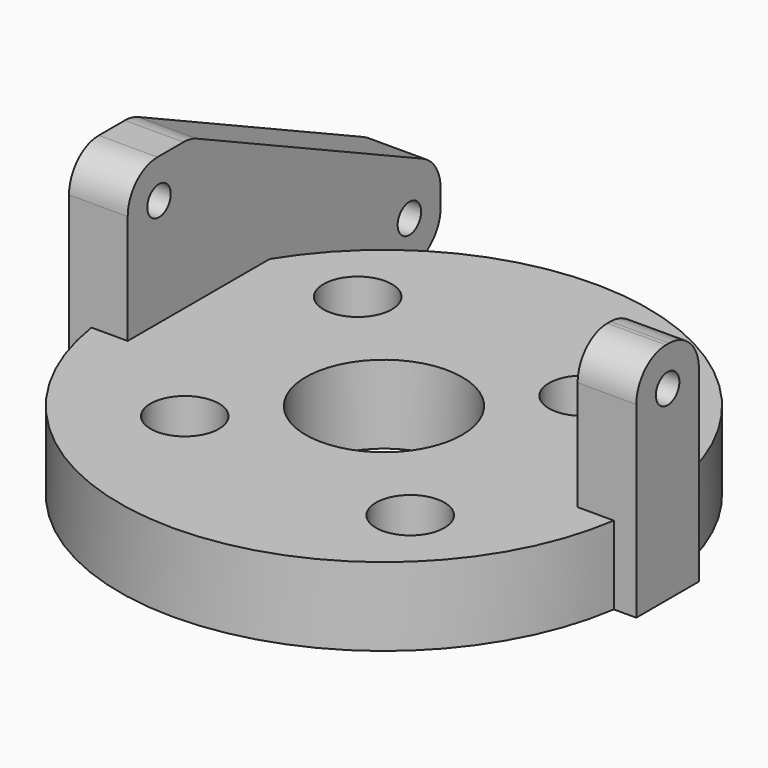
from build123d import *

# Parameters (mm, degrees)
SKETCH_R        = 13.5
SKETCH_R_2      = 1.75
SKETCH_R_3      = 4
PAD_DEPTH       = 4
SKETCH001_W     = 3
SKETCH001_H     = 4
SKETCH001_H_2   = 20
PAD001_DEPTH    = 11.5
FILLET_R        = 1.9
FILLET001_R     = 1.9
FILLET002_R     = 1.9
POCKET_DEPTH    = 5
FILLET003_R     = 2
FILLET004_R     = 1.9
FILLET005_R     = 2
SKETCH003_R     = 0.75
POCKET001_DEPTH = 5
SKETCH004_R     = 0.75
POCKET002_DEPTH = 5


with BuildPart() as part:
    # Sketch → Pad (new body)
    with BuildSketch(Plane.XY):
        Circle(SKETCH_R)
        with Locations((-5.656854, -5.656854)):
            Circle(SKETCH_R_2, mode=Mode.SUBTRACT)
        with Locations((5.656854, 5.656854)):
            Circle(SKETCH_R_2, mode=Mode.SUBTRACT)
        with Locations((-6.717514, 6.717514)):
            Circle(SKETCH_R_2, mode=Mode.SUBTRACT)
        with Locations((6.717514, -6.717514)):
            Circle(SKETCH_R_2, mode=Mode.SUBTRACT)
        Circle(SKETCH_R_3, mode=Mode.SUBTRACT)
    extrude(amount=PAD_DEPTH)

    # Sketch001 (on Face7 of Pad) → Pad001 (join)
    with BuildSketch(Plane(origin=(0, 0, 0), x_dir=(1, 0, 0), z_dir=(0, 0, -1))):
        with Locations((13, 0)):
            Rectangle(SKETCH001_W, SKETCH001_H)
        with Locations((-13, -8)):
            Rectangle(SKETCH001_W, SKETCH001_H_2)
    extrude(amount=-PAD001_DEPTH)

    # Fillet
    fillet_edges = [part.edges().sort_by_distance(p)[0] for p in [
        (13, 2, 11.5),
    ]]
    fillet(fillet_edges, radius=FILLET_R)

    # Fillet001
    fillet001_edges = [part.edges().sort_by_distance(p)[0] for p in [
        (13, -2, 11.5),
    ]]
    fillet(fillet001_edges, radius=FILLET001_R)

    # Fillet002
    fillet002_edges = [part.edges().sort_by_distance(p)[0] for p in [
        (-13, -2, 11.5),
    ]]
    fillet(fillet002_edges, radius=FILLET002_R)

    # Sketch002 (on Face5 of Fillet002) → Pocket (cut)
    with BuildSketch(Plane(origin=(-14.5, 0, 0), x_dir=(0, -1, 0), z_dir=(-1, 0, 0))):
        Polygon((-18, 11.5), (-18, 4), (-2.008357, 11.5), align=None)
    extrude(amount=-POCKET_DEPTH, mode=Mode.SUBTRACT)

    # Fillet003
    fillet003_edges = [part.edges().sort_by_distance(p)[0] for p in [
        (-13, 18, 4),
    ]]
    fillet(fillet003_edges, radius=FILLET003_R)

    # Fillet004
    fillet004_edges = [part.edges().sort_by_distance(p)[0] for p in [
        (-13, 18, 0),
    ]]
    fillet(fillet004_edges, radius=FILLET004_R)

    # Fillet005
    fillet005_edges = [part.edges().sort_by_distance(p)[0] for p in [
        (-13, 2.008357, 11.5),
    ]]
    fillet(fillet005_edges, radius=FILLET005_R)

    # Sketch003 (on Face13 of Fillet005) → Pocket001 (cut)
    with BuildSketch(Plane(origin=(-14.5, 0, 0), x_dir=(0, -1, 0), z_dir=(-1, 0, 0))):
        with Locations((-16, 2.2)):
            Circle(SKETCH003_R)
        with Locations((0, 9.5)):
            Circle(SKETCH003_R)
    extrude(amount=-POCKET001_DEPTH, mode=Mode.SUBTRACT)

    # Sketch004 (on Face28 of Pocket001) → Pocket002 (cut)
    with BuildSketch(Plane.YZ.offset(14.5)):
        with Locations((0, 9.5)):
            Circle(SKETCH004_R)
    extrude(amount=-POCKET002_DEPTH, mode=Mode.SUBTRACT)


solid = part.part
